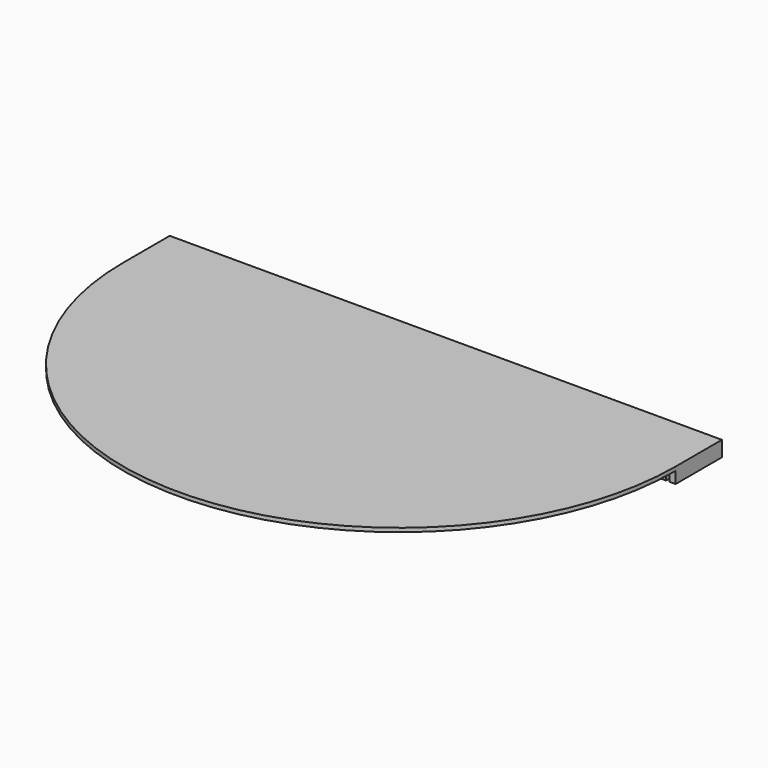
from build123d import *

# Parameters (mm, degrees)
F1_DEPTH = 1
F2_DEPTH = 3
F3_DEPTH = 0.7


with BuildPart() as f1:
    # F0 (on Top) → F1 (new body)
    with BuildSketch(Plane.XY):
        with BuildLine():
            ThreePointArc((-69.95, 5), (-69.776457, 5.355066), (-69.389682, 5.436268))
            ThreePointArc((-69.389682, 5.436268), (-69.10934, 10.224685), (-68.657801, 15))
            Line((-68.657801, 15), (-71.5, 15))
            Line((-71.5, 15), (-71.5, 0))
            Line((-71.5, 0), (-69.95, 0))
            Line((-69.95, 0), (-69.95, 5))
        make_face()
        with BuildLine():
            ThreePointArc((-69.05, 5), (-69.144934, 5.276457), (-69.389682, 5.436268))
            ThreePointArc((-69.389682, 5.436268), (-69.776457, 5.355066), (-69.95, 5))
            Line((-69.95, 5), (-69.95, 0))
            Line((-69.95, 0), (-71.5, 0))
            ThreePointArc((-71.5, 0), (0, -71.5), (71.5, 0))
            Line((71.5, 0), (69.95, 0))
            Line((69.95, 0), (69.95, 5))
            ThreePointArc((69.95, 5), (69.776457, 5.355066), (69.389682, 5.436268))
            ThreePointArc((69.389682, 5.436268), (69.144934, 5.276457), (69.05, 5))
            Line((69.05, 5), (69.05, 0))
            Line((69.05, 0), (64.5, 0))
            Line((64.5, 0), (64.5, 15))
            Line((64.5, 15), (-64.5, 15))
            Line((-64.5, 15), (-64.5, 0))
            Line((-64.5, 0), (-69.05, 0))
            Line((-69.05, 0), (-69.05, 5))
        make_face()
        with BuildLine():
            Line((69.95, 0), (71.5, 0))
            Line((71.5, 0), (71.5, 15))
            Line((71.5, 15), (68.657801, 15))
            ThreePointArc((68.657801, 15), (69.10934, 10.224685), (69.389682, 5.436268))
            ThreePointArc((69.389682, 5.436268), (69.776457, 5.355066), (69.95, 5))
            Line((69.95, 5), (69.95, 0))
        make_face()
        with BuildLine():
            ThreePointArc((-68.657801, 15), (-69.10934, 10.224685), (-69.389682, 5.436268))
            ThreePointArc((-69.389682, 5.436268), (-69.144934, 5.276457), (-69.05, 5))
            Line((-69.05, 5), (-69.05, 0))
            Line((-69.05, 0), (-64.5, 0))
            Line((-64.5, 0), (-64.5, 15))
            Line((-64.5, 15), (-68.657801, 15))
        make_face()
        with BuildLine():
            Line((68.657801, 15), (64.5, 15))
            Line((64.5, 15), (64.5, 0))
            Line((64.5, 0), (69.05, 0))
            Line((69.05, 0), (69.05, 5))
            ThreePointArc((69.05, 5), (69.144934, 5.276457), (69.389682, 5.436268))
            ThreePointArc((69.389682, 5.436268), (69.10934, 10.224685), (68.657801, 15))
        make_face()
    extrude(amount=F1_DEPTH)

    # F0 (on Top) → F2 (join)
    with BuildSketch(Plane.XY):
        with BuildLine():
            Line((69.95, 0), (71.5, 0))
            Line((71.5, 0), (71.5, 15))
            Line((71.5, 15), (68.657801, 15))
            ThreePointArc((68.657801, 15), (69.10934, 10.224685), (69.389682, 5.436268))
            ThreePointArc((69.389682, 5.436268), (69.776457, 5.355066), (69.95, 5))
            Line((69.95, 5), (69.95, 0))
        make_face()
        with BuildLine():
            ThreePointArc((-69.95, 5), (-69.776457, 5.355066), (-69.389682, 5.436268))
            ThreePointArc((-69.389682, 5.436268), (-69.10934, 10.224685), (-68.657801, 15))
            Line((-68.657801, 15), (-71.5, 15))
            Line((-71.5, 15), (-71.5, 0))
            Line((-71.5, 0), (-69.95, 0))
            Line((-69.95, 0), (-69.95, 5))
        make_face()
        with BuildLine():
            ThreePointArc((-68.657801, 15), (-69.10934, 10.224685), (-69.389682, 5.436268))
            ThreePointArc((-69.389682, 5.436268), (-69.144934, 5.276457), (-69.05, 5))
            Line((-69.05, 5), (-69.05, 0))
            Line((-69.05, 0), (-64.5, 0))
            Line((-64.5, 0), (-64.5, 15))
            Line((-64.5, 15), (-68.657801, 15))
        make_face()
        with BuildLine():
            Line((68.657801, 15), (64.5, 15))
            Line((64.5, 15), (64.5, 0))
            Line((64.5, 0), (69.05, 0))
            Line((69.05, 0), (69.05, 5))
            ThreePointArc((69.05, 5), (69.144934, 5.276457), (69.389682, 5.436268))
            ThreePointArc((69.389682, 5.436268), (69.10934, 10.224685), (68.657801, 15))
        make_face()
    extrude(amount=-F2_DEPTH)

    # F0 (on Top) → F3 (cut)
    with BuildSketch(Plane.XY):
        with BuildLine():
            ThreePointArc((-68.657801, 15), (-69.10934, 10.224685), (-69.389682, 5.436268))
            ThreePointArc((-69.389682, 5.436268), (-69.144934, 5.276457), (-69.05, 5))
            Line((-69.05, 5), (-69.05, 0))
            Line((-69.05, 0), (-64.5, 0))
            Line((-64.5, 0), (-64.5, 15))
            Line((-64.5, 15), (-68.657801, 15))
        make_face()
        with BuildLine():
            Line((68.657801, 15), (64.5, 15))
            Line((64.5, 15), (64.5, 0))
            Line((64.5, 0), (69.05, 0))
            Line((69.05, 0), (69.05, 5))
            ThreePointArc((69.05, 5), (69.144934, 5.276457), (69.389682, 5.436268))
            ThreePointArc((69.389682, 5.436268), (69.10934, 10.224685), (68.657801, 15))
        make_face()
    extrude(amount=-F3_DEPTH, mode=Mode.SUBTRACT)


solid = f1.part
